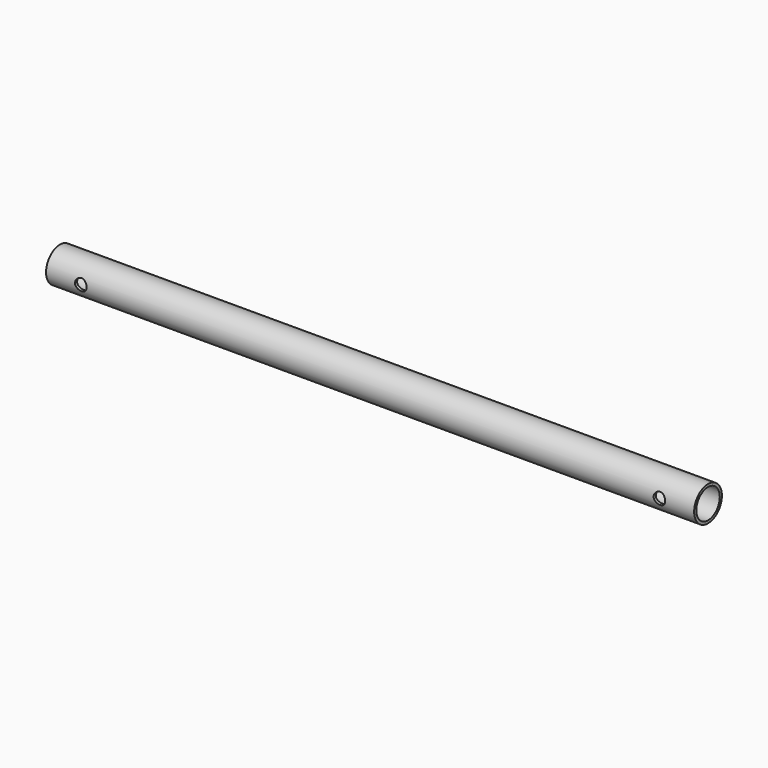
from build123d import *

# Parameters (mm, degrees)
F0_R     = 9.525
F0_R_2   = 8.0518
F1_DEPTH = 355.6
F2_R     = 3.175
F3_DEPTH = 38.1


with BuildPart() as f1:
    # F0 (on Right) → F1 (new body)
    with BuildSketch(Plane.YZ):
        Circle(F0_R)
        Circle(F0_R_2, mode=Mode.SUBTRACT)
    extrude(amount=F1_DEPTH)

    # F2 (on Front) → F3 (cut, symmetric)
    with BuildSketch(Plane.XZ):
        with Locations((336.55, 0)):
            Circle(F2_R)
        with Locations((19.05, 0)):
            Circle(F2_R)
    extrude(amount=F3_DEPTH, both=True, mode=Mode.SUBTRACT)


solid = f1.part
